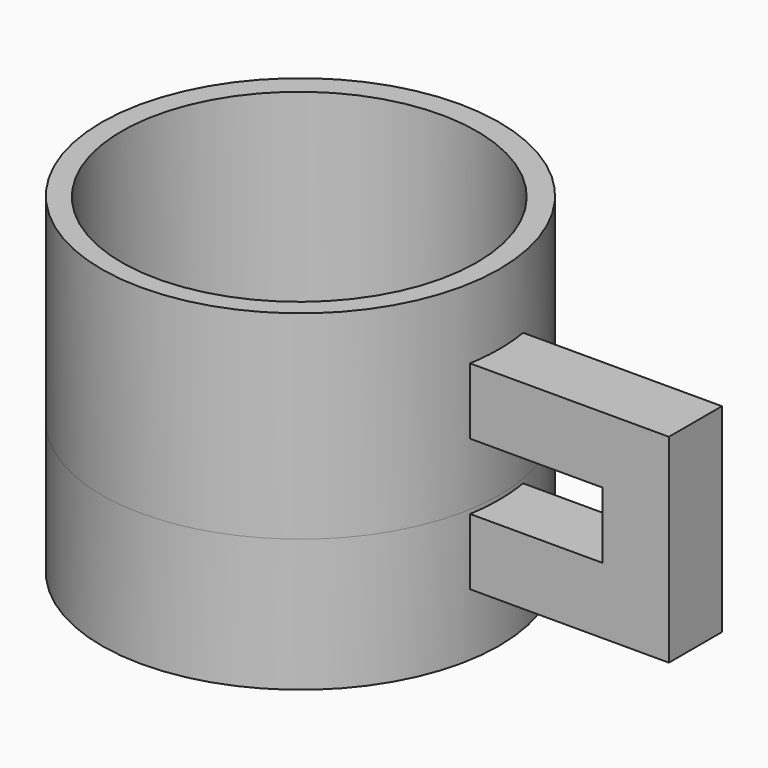
from build123d import *

# Parameters (mm, degrees)
F1_DEPTH      = 25.4
F2_R          = 76.2
F3_DEPTH      = 76.2
F3_DEPTH_BACK = 50.8
F5_R          = 68.0716373703
F6_DEPTH      = 114.3


with BuildPart() as f1:
    # F0 (on Front) → F1 (new body)
    with BuildSketch(Plane.XZ):
        Polygon((34.8995993793, 49.2647366976), (-41.3004006207, 49.2647366976), (-41.3004006207, 23.8647366976), (9.4995993793, 23.8647366976), (9.4995993793, -1.5352633024), (-41.3004006207, -1.5352633024), (-41.3004006207, -26.9352633024), (34.8995993793, -26.9352633024), align=None)
    extrude(amount=F1_DEPTH)

    # F2 (on Top) → F3 (join, two sides)
    with BuildSketch(Plane.XY) as f3_sk:
        with Locations((-116.4346138661, -12.7)):
            Circle(F2_R)
    extrude(amount=F3_DEPTH)
    extrude(f3_sk.sketch, amount=-F3_DEPTH_BACK)

    # F5 (on face) → F6 (cut)
    with BuildSketch(Plane.XY.offset(76.2)):
        with Locations((-116.2916272879, -13.451478444)):
            Circle(F5_R)
    extrude(amount=-F6_DEPTH, mode=Mode.SUBTRACT)


solid = f1.part
